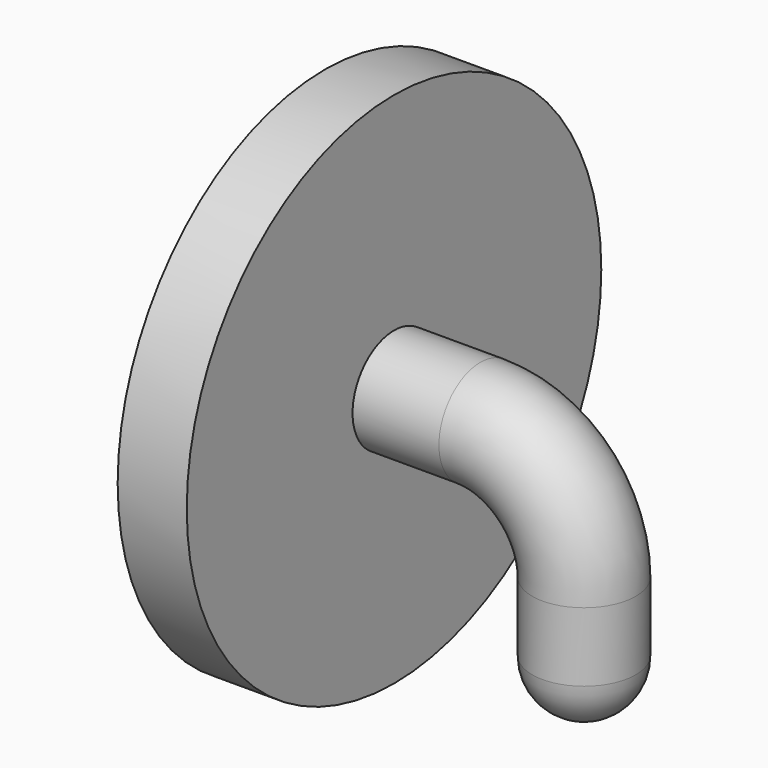
from build123d import *

# Parameters (mm, degrees)
F0_R     = 7.5
F1_DEPTH = 2
F3_R     = 1.5
F5_R     = 1.5


with BuildPart() as f1:
    # F0 (on Right) → F1 (new body)
    with BuildSketch(Plane.YZ):
        Circle(F0_R)
    extrude(amount=-F1_DEPTH)

    # F4: sweep along a path in F2
    with BuildLine(Plane.XZ) as f4_path:
        Line((0, 0), (2.5, 0))
        ThreePointArc((2.5, 0), (4.6213203436, -0.8786796564), (5.5, -3))
        Line((5.5, -3), (5.5, -6.5))
    # F3 (on Right) → F4 (sweep)
    with BuildSketch(Plane.YZ):
        Circle(F3_R)
    sweep(path=f4_path.line)

    # F5
    f5_edges = [f1.edges().sort_by_distance(p)[0] for p in [
        (5.5, -1.5, -6.5),
    ]]
    fillet(f5_edges, radius=F5_R)


solid = f1.part
